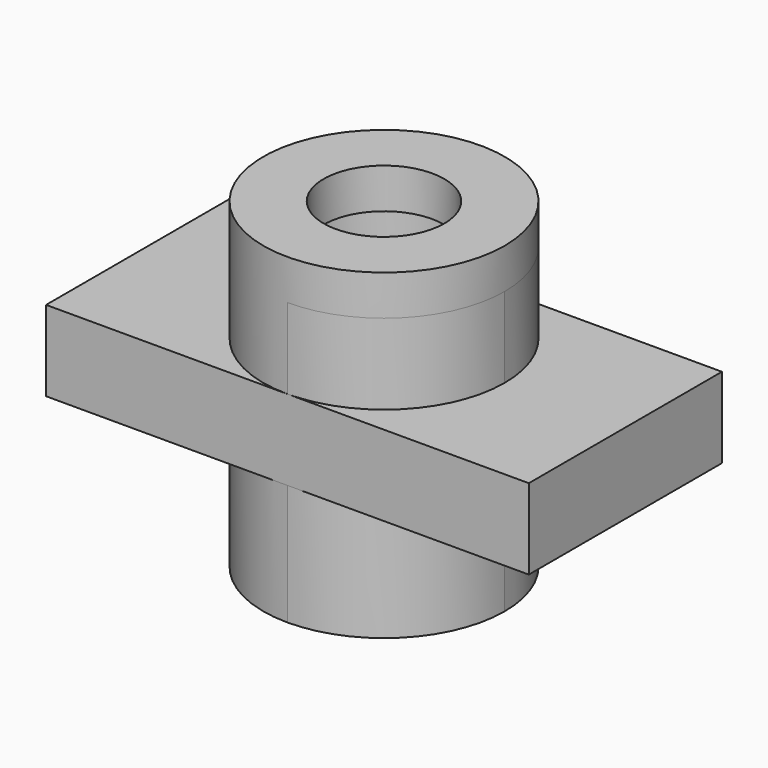
from build123d import *

# Parameters (mm, degrees)
F0_W      = 76.2
F0_H      = 12.7
F1_DEPTH  = 38.1
F3_DEPTH  = 12.7
F4_R      = 12.7
F5_DEPTH  = 6.35
F6_R      = 19.05
F7_DEPTH  = 6.35
F9_DEPTH  = 19.05
F10_R     = 9.525
F11_DEPTH = 152.4


with BuildPart() as f1:
    # F0 (on Front) → F1 (new body)
    with BuildSketch(Plane.XZ):
        with Locations((38.1, 6.35)):
            Rectangle(F0_W, F0_H)
    extrude(amount=F1_DEPTH)

    # F2 (on face) → F3 (join)
    with BuildSketch(Plane.XY.offset(12.7)):
        with BuildLine():
            ThreePointArc((57.15, -19.05), (51.570384, -5.579616), (38.1, 0))
            Line((38.1, 0), (38.1, -38.1))
            ThreePointArc((38.1, -38.1), (51.570384, -32.520384), (57.15, -19.05))
        make_face()
        with BuildLine():
            Line((38.1, -38.1), (38.1, 0))
            ThreePointArc((38.1, 0), (19.05, -19.05), (38.1, -38.1))
        make_face()
    extrude(amount=F3_DEPTH)

    # F4 (on face) → F5 (cut)
    with BuildSketch(Plane.XY.offset(25.4)):
        with Locations((38.1, -19.05)):
            Circle(F4_R)
    extrude(amount=-F5_DEPTH, mode=Mode.SUBTRACT)

    # F6 (on face) → F7 (join)
    with BuildSketch(Plane.XY.offset(25.4)):
        with Locations((38.1, -19.05)):
            Circle(F6_R)
    extrude(amount=F7_DEPTH)

    # F8 (on face) → F9 (join)
    with BuildSketch(Plane(origin=(0, 0, 0), x_dir=(1, 0, 0), z_dir=(0, 0, -1))):
        with BuildLine():
            ThreePointArc((38.1, 38.1), (19.05, 19.05), (38.1, 0))
            Line((38.1, 0), (38.1, 38.1))
        make_face()
        with BuildLine():
            Line((38.1, 38.1), (38.1, 0))
            ThreePointArc((38.1, 0), (51.570384, 5.579616), (57.15, 19.05))
            ThreePointArc((57.15, 19.05), (51.570384, 32.520384), (38.1, 38.1))
        make_face()
    extrude(amount=F9_DEPTH)

    # F10 (on face) → F11 (cut)
    with BuildSketch(Plane(origin=(0, 0, -19.05), x_dir=(1, 0, 0), z_dir=(0, 0, -1))):
        with Locations((38.1, 19.05)):
            Circle(F10_R)
    extrude(amount=-F11_DEPTH, mode=Mode.SUBTRACT)


solid = f1.part
